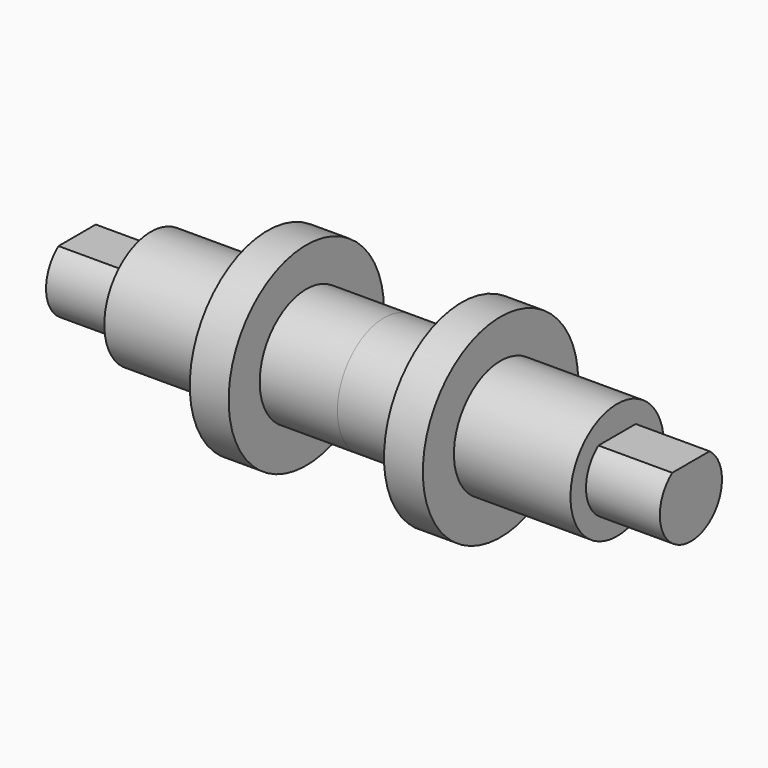
from build123d import *

# Parameters (mm, degrees)
F0_R     = 10
F1_DEPTH = 19
F2_R     = 15
F3_DEPTH = 30
F4_R     = 25
F5_DEPTH = 10
F6_R     = 15
F7_DEPTH = 20
F9_DEPTH = 19


with BuildPart() as f1:
    # F0 (on Right) → F1 (new body)
    with BuildSketch(Plane.YZ):
        Circle(F0_R)
    extrude(amount=F1_DEPTH)

    # F2 (on face) → F3 (join)
    with BuildSketch(Plane.YZ.offset(19)):
        Circle(F2_R)
    extrude(amount=F3_DEPTH)

    # F4 (on face) → F5 (join)
    with BuildSketch(Plane.YZ.offset(49)):
        Circle(F4_R)
    extrude(amount=F5_DEPTH)

    # F6 (on face) → F7 (join)
    with BuildSketch(Plane.YZ.offset(59)):
        Circle(F6_R)
    extrude(amount=F7_DEPTH)

    # F8 (on face) → F9 (cut, through all)
    with BuildSketch(Plane(origin=(0, 0, 0), x_dir=(0, -1, 0), z_dir=(-1, 0, 0))):
        with BuildLine():
            ThreePointArc((6, 8), (0, 10), (-6, 8))
            Line((-6, 8), (6, 8))
        make_face()
    extrude(amount=-F9_DEPTH, mode=Mode.SUBTRACT)

    # F10: F1 across face


with BuildPart() as f1_1:
    add(f1.part)
    add(f1.part.mirror(Plane.YZ.offset(79)))


solid = f1_1.part
